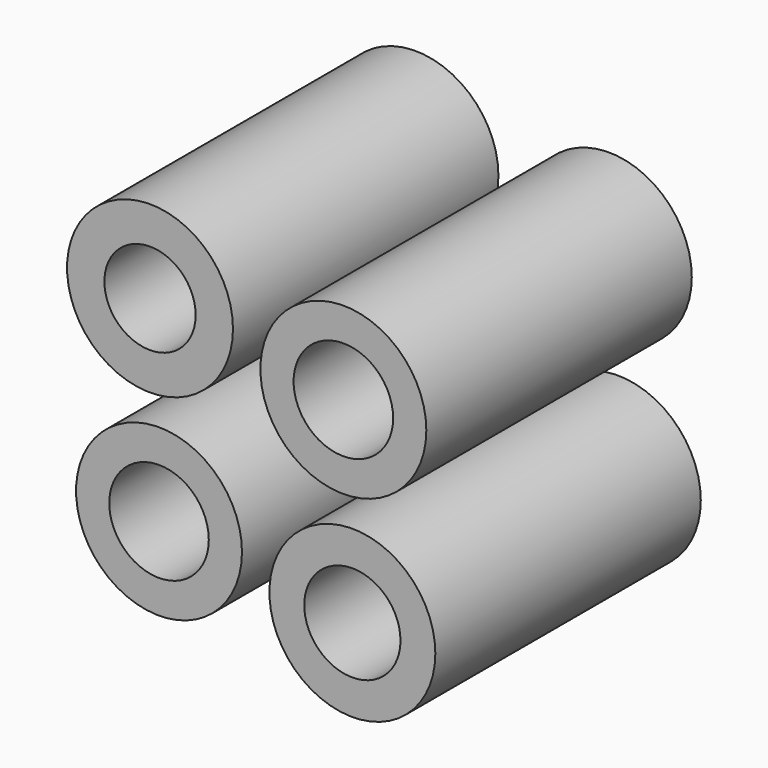
from build123d import *

# Parameters (mm, degrees)
F0_R     = 5
F0_R_2   = 2.75
F0_R_3   = 3
F0_R_4   = 2.9
F1_DEPTH = 20


with BuildPart() as f1:
    # F0 (on Front) → F1 (new body)
    with BuildSketch(Plane.XZ):
        Circle(F0_R)
        Circle(F0_R_2, mode=Mode.SUBTRACT)
        with Locations((11.653694, -1.592364)):
            Circle(F0_R)
        with Locations((11.653694, -1.592364)):
            Circle(F0_R_3, mode=Mode.SUBTRACT)
        with Locations((0.542667, -11.661113)):
            Circle(F0_R)
        with Locations((0.542667, -11.661113)):
            Circle(F0_R_3, mode=Mode.SUBTRACT)
        with Locations((12.196362, -13.253478)):
            Circle(F0_R)
        with Locations((12.196362, -13.253478)):
            Circle(F0_R_4, mode=Mode.SUBTRACT)
    extrude(amount=F1_DEPTH)


solid = f1.part
